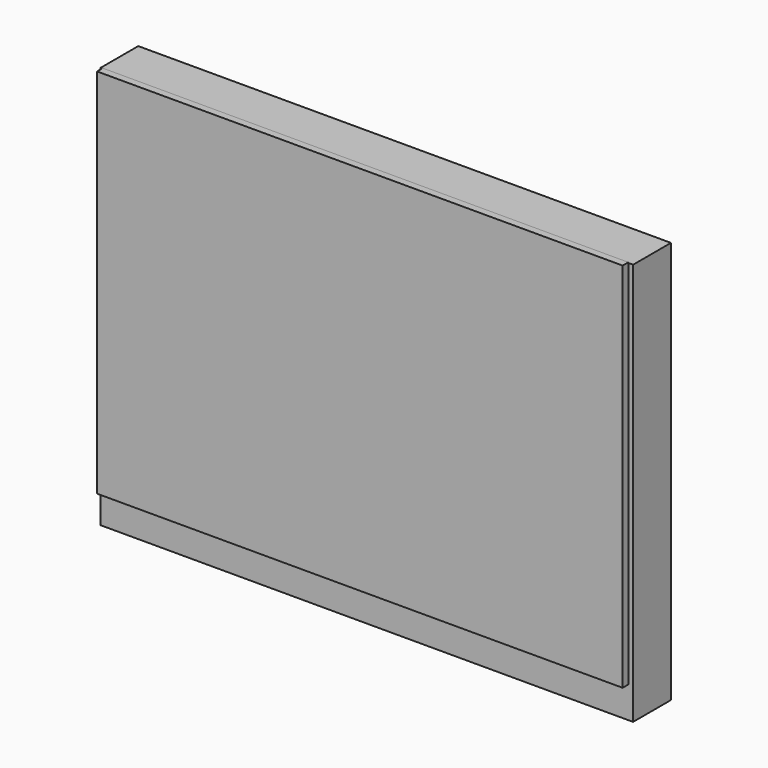
from build123d import *

# Parameters (mm, degrees)
BOX039_W                  = 222
BOX039_H                  = 3
BOX039_DEPTH              = 157
BOX081_W                  = 300
BOX081_H                  = 50
BOX081_DEPTH              = 200
BOX114_W                  = 1
BOX114_H                  = 20
BOX114_DEPTH              = 275
BOX115_W                  = 4
BOX115_H                  = 20
BOX115_DEPTH              = 275
BOX116_W                  = 225
BOX116_H                  = 20
BOX116_DEPTH              = 4
BOX117_W                  = 225
BOX117_H                  = 20
BOX117_DEPTH              = 1
BOX103_W                  = 35
BOX103_H                  = 30
BOX103_DEPTH              = 10
BOX104_W                  = 10
BOX104_H                  = 30
BOX104_DEPTH              = 10
BOX105_W                  = 10
BOX105_H                  = 30
BOX105_DEPTH              = 10
BOX106_W                  = 10
BOX106_H                  = 28.9
BOX106_DEPTH              = 10
BOX091_W                  = 10
BOX091_H                  = 28.9
BOX091_DEPTH              = 10
BOX092_W                  = 10
BOX092_H                  = 28.9
BOX092_DEPTH              = 10
BOX094_W                  = 12
BOX094_H                  = 30
BOX094_DEPTH              = 10
BOX093_W                  = 10
BOX093_H                  = 28.9
BOX093_DEPTH              = 10
BOX095_W                  = 45
BOX095_H                  = 30
BOX095_DEPTH              = 10
BOX097_W                  = 45
BOX097_H                  = 30
BOX097_DEPTH              = 10
BOX096_W                  = 35
BOX096_H                  = 30
BOX096_DEPTH              = 10
BOX098_W                  = 35
BOX098_H                  = 30
BOX098_DEPTH              = 10
BOX099_W                  = 45
BOX099_H                  = 30
BOX099_DEPTH              = 10
BOX100_W                  = 35
BOX100_H                  = 30
BOX100_DEPTH              = 10
BOX101_W                  = 45
BOX101_H                  = 30
BOX101_DEPTH              = 10
BOX082_W                  = 10
BOX082_H                  = 30
BOX082_DEPTH              = 10
BOX102_W                  = 10
BOX102_H                  = 30
BOX102_DEPTH              = 10
BOX083_W                  = 18
BOX083_H                  = 30
BOX083_DEPTH              = 10
BOX084_W                  = 10
BOX084_H                  = 30
BOX084_DEPTH              = 10
BOX085_W                  = 10
BOX085_H                  = 30
BOX085_DEPTH              = 10
BOX086_W                  = 10
BOX086_H                  = 30
BOX086_DEPTH              = 10
BOX087_W                  = 10
BOX087_H                  = 30
BOX087_DEPTH              = 10
BOX113_W                  = 10
BOX113_H                  = 30
BOX113_DEPTH              = 10
BOX112_W                  = 10
BOX112_H                  = 30
BOX112_DEPTH              = 10
BOX111_W                  = 10
BOX111_H                  = 30
BOX111_DEPTH              = 10
BOX109_W                  = 10
BOX109_H                  = 30
BOX109_DEPTH              = 10
BOX108_W                  = 10
BOX108_H                  = 30
BOX108_DEPTH              = 10
BOX088_W                  = 10
BOX088_H                  = 30
BOX088_DEPTH              = 11
BOX089_W                  = 10
BOX089_H                  = 30
BOX089_DEPTH              = 10
BOX090_W                  = 10
BOX090_H                  = 30
BOX090_DEPTH              = 10
BOX110_W                  = 10
BOX110_H                  = 30
BOX110_DEPTH              = 10
BOX107_W                  = 220
BOX107_H                  = 4
BOX107_DEPTH              = 275
FUSION013_PLACEMENT_ANGLE = 180
BOX150_W                  = 1
BOX150_H                  = 20
BOX150_DEPTH              = 275
BOX151_W                  = 4
BOX151_H                  = 20
BOX151_DEPTH              = 275
BOX152_W                  = 225
BOX152_H                  = 20
BOX152_DEPTH              = 4
BOX153_W                  = 225
BOX153_H                  = 20
BOX153_DEPTH              = 1
BOX119_W                  = 35
BOX119_H                  = 30
BOX119_DEPTH              = 10
BOX120_W                  = 10
BOX120_H                  = 30
BOX120_DEPTH              = 10
BOX121_W                  = 10
BOX121_H                  = 30
BOX121_DEPTH              = 10
BOX122_W                  = 10
BOX122_H                  = 28.9
BOX122_DEPTH              = 10
BOX123_W                  = 10
BOX123_H                  = 28.9
BOX123_DEPTH              = 10
BOX124_W                  = 10
BOX124_H                  = 28.9
BOX124_DEPTH              = 10
BOX126_W                  = 12
BOX126_H                  = 30
BOX126_DEPTH              = 10
BOX125_W                  = 10
BOX125_H                  = 28.9
BOX125_DEPTH              = 10
BOX127_W                  = 45
BOX127_H                  = 30
BOX127_DEPTH              = 10
BOX129_W                  = 45
BOX129_H                  = 30
BOX129_DEPTH              = 10
BOX128_W                  = 35
BOX128_H                  = 30
BOX128_DEPTH              = 10
BOX130_W                  = 35
BOX130_H                  = 30
BOX130_DEPTH              = 10
BOX131_W                  = 45
BOX131_H                  = 30
BOX131_DEPTH              = 10
BOX132_W                  = 35
BOX132_H                  = 30
BOX132_DEPTH              = 10
BOX133_W                  = 45
BOX133_H                  = 30
BOX133_DEPTH              = 10
BOX135_W                  = 10
BOX135_H                  = 30
BOX135_DEPTH              = 10
BOX134_W                  = 10
BOX134_H                  = 30
BOX134_DEPTH              = 10
BOX136_W                  = 18
BOX136_H                  = 30
BOX136_DEPTH              = 10
BOX137_W                  = 10
BOX137_H                  = 30
BOX137_DEPTH              = 10
BOX138_W                  = 10
BOX138_H                  = 30
BOX138_DEPTH              = 10
BOX139_W                  = 10
BOX139_H                  = 30
BOX139_DEPTH              = 10
BOX140_W                  = 10
BOX140_H                  = 30
BOX140_DEPTH              = 10
BOX149_W                  = 10
BOX149_H                  = 30
BOX149_DEPTH              = 10
BOX148_W                  = 10
BOX148_H                  = 30
BOX148_DEPTH              = 10
BOX147_W                  = 10
BOX147_H                  = 30
BOX147_DEPTH              = 10
BOX145_W                  = 10
BOX145_H                  = 30
BOX145_DEPTH              = 10
BOX144_W                  = 10
BOX144_H                  = 30
BOX144_DEPTH              = 10
BOX141_W                  = 10
BOX141_H                  = 30
BOX141_DEPTH              = 11
BOX142_W                  = 10
BOX142_H                  = 30
BOX142_DEPTH              = 10
BOX143_W                  = 10
BOX143_H                  = 30
BOX143_DEPTH              = 10
BOX146_W                  = 10
BOX146_H                  = 30
BOX146_DEPTH              = 10
BOX118_W                  = 220
BOX118_H                  = 4
BOX118_DEPTH              = 275
FUSION015_PLACEMENT_ANGLE = 180


with BuildPart() as cubo039:
    # Box039 → Box039 (new body)
    with BuildSketch(Plane(origin=(-49, 17, -24.75), x_dir=(1, 0, 0), z_dir=(0, 0, 1))):
        with Locations((111, 1.5)):
            Rectangle(BOX039_W, BOX039_H)
    extrude(amount=BOX039_DEPTH)


with BuildPart() as cubo081:
    # Box081 → Box081 (new body)
    with BuildSketch(Plane(origin=(-111, 11, -38), x_dir=(1, 0, 0), z_dir=(0, 0, 1))):
        with Locations((150, 25)):
            Rectangle(BOX081_W, BOX081_H)
    extrude(amount=BOX081_DEPTH)


with BuildPart() as cubo114:
    # Box114 → Box114 (new body)
    with BuildSketch(Plane(origin=(-49, 40, -147), x_dir=(-1, 0, 0), z_dir=(0, 0, 1))):
        with Locations((0.5, 10)):
            Rectangle(BOX114_W, BOX114_H)
    extrude(amount=BOX114_DEPTH)


with BuildPart() as cubo115:
    # Box115 → Box115 (new body)
    with BuildSketch(Plane(origin=(175, 40, -147), x_dir=(-1, 0, 0), z_dir=(0, 0, 1))):
        with Locations((2, 10)):
            Rectangle(BOX115_W, BOX115_H)
    extrude(amount=BOX115_DEPTH)


with BuildPart() as cubo116:
    # Box116 → Box116 (new body)
    with BuildSketch(Plane(origin=(175, 40, 128), x_dir=(-1, 0, 0), z_dir=(0, 0, 1))):
        with Locations((112.5, 10)):
            Rectangle(BOX116_W, BOX116_H)
    extrude(amount=BOX116_DEPTH)


with BuildPart() as cubo117:
    # Box117 → Box117 (new body)
    with BuildSketch(Plane(origin=(175, 40, -148), x_dir=(-1, 0, 0), z_dir=(0, 0, 1))):
        with Locations((112.5, 10)):
            Rectangle(BOX117_W, BOX117_H)
    extrude(amount=BOX117_DEPTH)


with BuildPart() as cubo103:
    # Box103 → Box103 (new body)
    with BuildSketch(Plane(origin=(-96, -54, 70), x_dir=(1, 0, 0), z_dir=(0, 0, 1))):
        with Locations((17.5, 15)):
            Rectangle(BOX103_W, BOX103_H)
    extrude(amount=BOX103_DEPTH)


with BuildPart() as cubo104:
    # Box104 → Box104 (new body)
    with BuildSketch(Plane(origin=(-142, -54, -110), x_dir=(1, 0, 0), z_dir=(0, 0, 1))):
        with Locations((5, 15)):
            Rectangle(BOX104_W, BOX104_H)
    extrude(amount=BOX104_DEPTH)


with BuildPart() as cubo105:
    # Box105 → Box105 (new body)
    with BuildSketch(Plane(origin=(-142, -54, -125), x_dir=(1, 0, 0), z_dir=(0, 0, 1))):
        with Locations((5, 15)):
            Rectangle(BOX105_W, BOX105_H)
    extrude(amount=BOX105_DEPTH)


with BuildPart() as cubo106:
    # Box106 → Box106 (new body)
    with BuildSketch(Plane(origin=(-106, -54, -115), x_dir=(1, 0, 0), z_dir=(0, 0, 1))):
        with Locations((5, 14.45)):
            Rectangle(BOX106_W, BOX106_H)
    extrude(amount=BOX106_DEPTH)


with BuildPart() as cubo091:
    # Box091 → Box091 (new body)
    with BuildSketch(Plane(origin=(-142, -54, -146), x_dir=(1, 0, 0), z_dir=(0, 0, 1))):
        with Locations((5, 14.45)):
            Rectangle(BOX091_W, BOX091_H)
    extrude(amount=BOX091_DEPTH)


with BuildPart() as cubo092:
    # Box092 → Box092 (new body)
    with BuildSketch(Plane(origin=(-59, -54, -146), x_dir=(1, 0, 0), z_dir=(0, 0, 1))):
        with Locations((5, 14.45)):
            Rectangle(BOX092_W, BOX092_H)
    extrude(amount=BOX092_DEPTH)


with BuildPart() as cubo094:
    # Box094 → Box094 (new body)
    with BuildSketch(Plane(origin=(-59, -54, -109), x_dir=(1, 0, 0), z_dir=(0, 0, 1))):
        with Locations((6, 15)):
            Rectangle(BOX094_W, BOX094_H)
    extrude(amount=BOX094_DEPTH)


with BuildPart() as cubo093:
    # Box093 → Box093 (new body)
    with BuildSketch(Plane(origin=(-59, -54, -125), x_dir=(1, 0, 0), z_dir=(0, 0, 1))):
        with Locations((5, 14.45)):
            Rectangle(BOX093_W, BOX093_H)
    extrude(amount=BOX093_DEPTH)


with BuildPart() as cubo095:
    # Box095 → Box095 (new body)
    with BuildSketch(Plane(origin=(-155, -54, 70), x_dir=(1, 0, 0), z_dir=(0, 0, 1))):
        with Locations((22.5, 15)):
            Rectangle(BOX095_W, BOX095_H)
    extrude(amount=BOX095_DEPTH)


with BuildPart() as cubo097:
    # Box097 → Box097 (new body)
    with BuildSketch(Plane(origin=(2, -54, 70), x_dir=(1, 0, 0), z_dir=(0, 0, 1))):
        with Locations((22.5, 15)):
            Rectangle(BOX097_W, BOX097_H)
    extrude(amount=BOX097_DEPTH)


with BuildPart() as cubo096:
    # Box096 → Box096 (new body)
    with BuildSketch(Plane(origin=(-46, -54, 70), x_dir=(1, 0, 0), z_dir=(0, 0, 1))):
        with Locations((17.5, 15)):
            Rectangle(BOX096_W, BOX096_H)
    extrude(amount=BOX096_DEPTH)


with BuildPart() as cubo098:
    # Box098 → Box098 (new body)
    with BuildSketch(Plane(origin=(-96, -54, -77), x_dir=(1, 0, 0), z_dir=(0, 0, 1))):
        with Locations((17.5, 15)):
            Rectangle(BOX098_W, BOX098_H)
    extrude(amount=BOX098_DEPTH)


with BuildPart() as cubo099:
    # Box099 → Box099 (new body)
    with BuildSketch(Plane(origin=(-155, -54, -77), x_dir=(1, 0, 0), z_dir=(0, 0, 1))):
        with Locations((22.5, 15)):
            Rectangle(BOX099_W, BOX099_H)
    extrude(amount=BOX099_DEPTH)


with BuildPart() as cubo100:
    # Box100 → Box100 (new body)
    with BuildSketch(Plane(origin=(-46, -54, -77), x_dir=(1, 0, 0), z_dir=(0, 0, 1))):
        with Locations((17.5, 15)):
            Rectangle(BOX100_W, BOX100_H)
    extrude(amount=BOX100_DEPTH)


with BuildPart() as cubo101:
    # Box101 → Box101 (new body)
    with BuildSketch(Plane(origin=(2, -54, -78), x_dir=(1, 0, 0), z_dir=(0, 0, 1))):
        with Locations((22.5, 15)):
            Rectangle(BOX101_W, BOX101_H)
    extrude(amount=BOX101_DEPTH)


with BuildPart() as cubo082:
    # Box082 → Box082 (new body)
    with BuildSketch(Plane(origin=(35, -54, -128), x_dir=(1, 0, 0), z_dir=(0, 0, 1))):
        with Locations((5, 15)):
            Rectangle(BOX082_W, BOX082_H)
    extrude(amount=BOX082_DEPTH)


with BuildPart() as cubo102:
    # Box102 → Box102 (new body)
    with BuildSketch(Plane(origin=(-25, -54, -128), x_dir=(1, 0, 0), z_dir=(0, 0, 1))):
        with Locations((5, 15)):
            Rectangle(BOX102_W, BOX102_H)
    extrude(amount=BOX102_DEPTH)


with BuildPart() as cubo083:
    # Box083 → Box083 (new body)
    with BuildSketch(Plane(origin=(2, -54, -86), x_dir=(1, 0, 0), z_dir=(0, 0, 1))):
        with Locations((9, 15)):
            Rectangle(BOX083_W, BOX083_H)
    extrude(amount=BOX083_DEPTH)


with BuildPart() as cubo084:
    # Box084 → Box084 (new body)
    with BuildSketch(Plane(origin=(-56, -54, 77), x_dir=(1, 0, 0), z_dir=(0, 0, 1))):
        with Locations((5, 15)):
            Rectangle(BOX084_W, BOX084_H)
    extrude(amount=BOX084_DEPTH)


with BuildPart() as cubo085:
    # Box085 → Box085 (new body)
    with BuildSketch(Plane(origin=(21, -54, 112), x_dir=(1, 0, 0), z_dir=(0, 0, 1))):
        with Locations((5, 15)):
            Rectangle(BOX085_W, BOX085_H)
    extrude(amount=BOX085_DEPTH)


with BuildPart() as cubo086:
    # Box086 → Box086 (new body)
    with BuildSketch(Plane(origin=(-55, -54, 112), x_dir=(1, 0, 0), z_dir=(0, 0, 1))):
        with Locations((5, 15)):
            Rectangle(BOX086_W, BOX086_H)
    extrude(amount=BOX086_DEPTH)


with BuildPart() as cubo087:
    # Box087 → Box087 (new body)
    with BuildSketch(Plane(origin=(19, -54, 77), x_dir=(1, 0, 0), z_dir=(0, 0, 1))):
        with Locations((5, 15)):
            Rectangle(BOX087_W, BOX087_H)
    extrude(amount=BOX087_DEPTH)


with BuildPart() as cubo113:
    # Box113 → Box113 (new body)
    with BuildSketch(Plane(origin=(-8, -54, -4), x_dir=(1, 0, 0), z_dir=(0, 0, 1))):
        with Locations((5, 15)):
            Rectangle(BOX113_W, BOX113_H)
    extrude(amount=BOX113_DEPTH)


with BuildPart() as cubo112:
    # Box112 → Box112 (new body)
    with BuildSketch(Plane(origin=(-58, -54, -4), x_dir=(1, 0, 0), z_dir=(0, 0, 1))):
        with Locations((5, 15)):
            Rectangle(BOX112_W, BOX112_H)
    extrude(amount=BOX112_DEPTH)


with BuildPart() as cubo111:
    # Box111 → Box111 (new body)
    with BuildSketch(Plane(origin=(-108, -54, -4), x_dir=(1, 0, 0), z_dir=(0, 0, 1))):
        with Locations((5, 15)):
            Rectangle(BOX111_W, BOX111_H)
    extrude(amount=BOX111_DEPTH)


with BuildPart() as cubo109:
    # Box109 → Box109 (new body)
    with BuildSketch(Plane(origin=(-155, -54, -4), x_dir=(1, 0, 0), z_dir=(0, 0, 1))):
        with Locations((5, 15)):
            Rectangle(BOX109_W, BOX109_H)
    extrude(amount=BOX109_DEPTH)


with BuildPart() as cubo108:
    # Box108 → Box108 (new body)
    with BuildSketch(Plane(origin=(-64, -54, 75), x_dir=(1, 0, 0), z_dir=(0, 0, 1))):
        with Locations((5, 15)):
            Rectangle(BOX108_W, BOX108_H)
    extrude(amount=BOX108_DEPTH)


with BuildPart() as cubo088:
    # Box088 → Box088 (new body)
    with BuildSketch(Plane(origin=(-65, -54, 111), x_dir=(1, 0, 0), z_dir=(0, 0, 1))):
        with Locations((5, 15)):
            Rectangle(BOX088_W, BOX088_H)
    extrude(amount=BOX088_DEPTH)


with BuildPart() as cubo089:
    # Box089 → Box089 (new body)
    with BuildSketch(Plane(origin=(-139, -54, 111), x_dir=(1, 0, 0), z_dir=(0, 0, 1))):
        with Locations((5, 15)):
            Rectangle(BOX089_W, BOX089_H)
    extrude(amount=BOX089_DEPTH)


with BuildPart() as cubo090:
    # Box090 → Box090 (new body)
    with BuildSketch(Plane(origin=(-139, -54, 76), x_dir=(1, 0, 0), z_dir=(0, 0, 1))):
        with Locations((5, 15)):
            Rectangle(BOX090_W, BOX090_H)
    extrude(amount=BOX090_DEPTH)


with BuildPart() as cubo110:
    # Box110 → Box110 (new body)
    with BuildSketch(Plane(origin=(37, -54, -4), x_dir=(1, 0, 0), z_dir=(0, 0, 1))):
        with Locations((5, 15)):
            Rectangle(BOX110_W, BOX110_H)
    extrude(amount=BOX110_DEPTH)


with BuildPart() as cut004:
    # Box107 → Box107 (new body)
    with BuildSketch(Plane(origin=(-171, -24, -147), x_dir=(1, 0, 0), z_dir=(0, 0, 1))):
        with Locations((110, 2)):
            Rectangle(BOX107_W, BOX107_H)
    extrude(amount=BOX107_DEPTH)

    # Fusion013: union Cubo103, Cubo104, Cubo105, Cubo106, Cubo091, Cubo092, Cubo094, Cubo093, Cubo095, Cubo097, Cubo096, Cubo098, Cubo099, Cubo100, Cubo101, Cubo082, Cubo102, Cubo083, Cubo084, Cubo085, Cubo086, Cubo087, Cubo113, Cubo112, Cubo111, Cubo109, Cubo108, Cubo088, Cubo089, Cubo090, Cubo110
    add(cubo103.part)
    add(cubo104.part)
    add(cubo105.part)
    add(cubo106.part)
    add(cubo091.part)
    add(cubo092.part)
    add(cubo094.part)
    add(cubo093.part)
    add(cubo095.part)
    add(cubo097.part)
    add(cubo096.part)
    add(cubo098.part)
    add(cubo099.part)
    add(cubo100.part)
    add(cubo101.part)
    add(cubo082.part)
    add(cubo102.part)
    add(cubo083.part)
    add(cubo084.part)
    add(cubo085.part)
    add(cubo086.part)
    add(cubo087.part)
    add(cubo113.part)
    add(cubo112.part)
    add(cubo111.part)
    add(cubo109.part)
    add(cubo108.part)
    add(cubo088.part)
    add(cubo089.part)
    add(cubo090.part)
    add(cubo110.part)


with BuildPart() as cut004_1:
    # Fusion013 placement: moved
    add(cut004.part.rotate(Axis((0, 0, 0), (0, 0, 1)), FUSION013_PLACEMENT_ANGLE))

    # Fusion014: union Cubo114, Cubo115, Cubo116, Cubo117
    add(cubo114.part)
    add(cubo115.part)
    add(cubo116.part)
    add(cubo117.part)

    # Cut004: cut Cubo081
    add(cubo081.part, mode=Mode.SUBTRACT)


with BuildPart() as cubo150:
    # Box150 → Box150 (new body)
    with BuildSketch(Plane(origin=(-49, 40, -147), x_dir=(-1, 0, 0), z_dir=(0, 0, 1))):
        with Locations((0.5, 10)):
            Rectangle(BOX150_W, BOX150_H)
    extrude(amount=BOX150_DEPTH)


with BuildPart() as cubo151:
    # Box151 → Box151 (new body)
    with BuildSketch(Plane(origin=(175, 40, -147), x_dir=(-1, 0, 0), z_dir=(0, 0, 1))):
        with Locations((2, 10)):
            Rectangle(BOX151_W, BOX151_H)
    extrude(amount=BOX151_DEPTH)


with BuildPart() as cubo152:
    # Box152 → Box152 (new body)
    with BuildSketch(Plane(origin=(175, 40, 128), x_dir=(-1, 0, 0), z_dir=(0, 0, 1))):
        with Locations((112.5, 10)):
            Rectangle(BOX152_W, BOX152_H)
    extrude(amount=BOX152_DEPTH)


with BuildPart() as cubo153:
    # Box153 → Box153 (new body)
    with BuildSketch(Plane(origin=(175, 40, -148), x_dir=(-1, 0, 0), z_dir=(0, 0, 1))):
        with Locations((112.5, 10)):
            Rectangle(BOX153_W, BOX153_H)
    extrude(amount=BOX153_DEPTH)


with BuildPart() as cubo119:
    # Box119 → Box119 (new body)
    with BuildSketch(Plane(origin=(-96, -54, 70), x_dir=(1, 0, 0), z_dir=(0, 0, 1))):
        with Locations((17.5, 15)):
            Rectangle(BOX119_W, BOX119_H)
    extrude(amount=BOX119_DEPTH)


with BuildPart() as cubo120:
    # Box120 → Box120 (new body)
    with BuildSketch(Plane(origin=(-142, -54, -110), x_dir=(1, 0, 0), z_dir=(0, 0, 1))):
        with Locations((5, 15)):
            Rectangle(BOX120_W, BOX120_H)
    extrude(amount=BOX120_DEPTH)


with BuildPart() as cubo121:
    # Box121 → Box121 (new body)
    with BuildSketch(Plane(origin=(-142, -54, -125), x_dir=(1, 0, 0), z_dir=(0, 0, 1))):
        with Locations((5, 15)):
            Rectangle(BOX121_W, BOX121_H)
    extrude(amount=BOX121_DEPTH)


with BuildPart() as cubo122:
    # Box122 → Box122 (new body)
    with BuildSketch(Plane(origin=(-106, -54, -115), x_dir=(1, 0, 0), z_dir=(0, 0, 1))):
        with Locations((5, 14.45)):
            Rectangle(BOX122_W, BOX122_H)
    extrude(amount=BOX122_DEPTH)


with BuildPart() as cubo123:
    # Box123 → Box123 (new body)
    with BuildSketch(Plane(origin=(-142, -54, -146), x_dir=(1, 0, 0), z_dir=(0, 0, 1))):
        with Locations((5, 14.45)):
            Rectangle(BOX123_W, BOX123_H)
    extrude(amount=BOX123_DEPTH)


with BuildPart() as cubo124:
    # Box124 → Box124 (new body)
    with BuildSketch(Plane(origin=(-59, -54, -146), x_dir=(1, 0, 0), z_dir=(0, 0, 1))):
        with Locations((5, 14.45)):
            Rectangle(BOX124_W, BOX124_H)
    extrude(amount=BOX124_DEPTH)


with BuildPart() as cubo126:
    # Box126 → Box126 (new body)
    with BuildSketch(Plane(origin=(-59, -54, -109), x_dir=(1, 0, 0), z_dir=(0, 0, 1))):
        with Locations((6, 15)):
            Rectangle(BOX126_W, BOX126_H)
    extrude(amount=BOX126_DEPTH)


with BuildPart() as cubo125:
    # Box125 → Box125 (new body)
    with BuildSketch(Plane(origin=(-59, -54, -125), x_dir=(1, 0, 0), z_dir=(0, 0, 1))):
        with Locations((5, 14.45)):
            Rectangle(BOX125_W, BOX125_H)
    extrude(amount=BOX125_DEPTH)


with BuildPart() as cubo127:
    # Box127 → Box127 (new body)
    with BuildSketch(Plane(origin=(-155, -54, 70), x_dir=(1, 0, 0), z_dir=(0, 0, 1))):
        with Locations((22.5, 15)):
            Rectangle(BOX127_W, BOX127_H)
    extrude(amount=BOX127_DEPTH)


with BuildPart() as cubo129:
    # Box129 → Box129 (new body)
    with BuildSketch(Plane(origin=(2, -54, 70), x_dir=(1, 0, 0), z_dir=(0, 0, 1))):
        with Locations((22.5, 15)):
            Rectangle(BOX129_W, BOX129_H)
    extrude(amount=BOX129_DEPTH)


with BuildPart() as cubo128:
    # Box128 → Box128 (new body)
    with BuildSketch(Plane(origin=(-46, -54, 70), x_dir=(1, 0, 0), z_dir=(0, 0, 1))):
        with Locations((17.5, 15)):
            Rectangle(BOX128_W, BOX128_H)
    extrude(amount=BOX128_DEPTH)


with BuildPart() as cubo130:
    # Box130 → Box130 (new body)
    with BuildSketch(Plane(origin=(-96, -54, -77), x_dir=(1, 0, 0), z_dir=(0, 0, 1))):
        with Locations((17.5, 15)):
            Rectangle(BOX130_W, BOX130_H)
    extrude(amount=BOX130_DEPTH)


with BuildPart() as cubo131:
    # Box131 → Box131 (new body)
    with BuildSketch(Plane(origin=(-155, -54, -77), x_dir=(1, 0, 0), z_dir=(0, 0, 1))):
        with Locations((22.5, 15)):
            Rectangle(BOX131_W, BOX131_H)
    extrude(amount=BOX131_DEPTH)


with BuildPart() as cubo132:
    # Box132 → Box132 (new body)
    with BuildSketch(Plane(origin=(-46, -54, -77), x_dir=(1, 0, 0), z_dir=(0, 0, 1))):
        with Locations((17.5, 15)):
            Rectangle(BOX132_W, BOX132_H)
    extrude(amount=BOX132_DEPTH)


with BuildPart() as cubo133:
    # Box133 → Box133 (new body)
    with BuildSketch(Plane(origin=(2, -54, -78), x_dir=(1, 0, 0), z_dir=(0, 0, 1))):
        with Locations((22.5, 15)):
            Rectangle(BOX133_W, BOX133_H)
    extrude(amount=BOX133_DEPTH)


with BuildPart() as cubo135:
    # Box135 → Box135 (new body)
    with BuildSketch(Plane(origin=(35, -54, -128), x_dir=(1, 0, 0), z_dir=(0, 0, 1))):
        with Locations((5, 15)):
            Rectangle(BOX135_W, BOX135_H)
    extrude(amount=BOX135_DEPTH)


with BuildPart() as cubo134:
    # Box134 → Box134 (new body)
    with BuildSketch(Plane(origin=(-25, -54, -128), x_dir=(1, 0, 0), z_dir=(0, 0, 1))):
        with Locations((5, 15)):
            Rectangle(BOX134_W, BOX134_H)
    extrude(amount=BOX134_DEPTH)


with BuildPart() as cubo136:
    # Box136 → Box136 (new body)
    with BuildSketch(Plane(origin=(2, -54, -86), x_dir=(1, 0, 0), z_dir=(0, 0, 1))):
        with Locations((9, 15)):
            Rectangle(BOX136_W, BOX136_H)
    extrude(amount=BOX136_DEPTH)


with BuildPart() as cubo137:
    # Box137 → Box137 (new body)
    with BuildSketch(Plane(origin=(-56, -54, 77), x_dir=(1, 0, 0), z_dir=(0, 0, 1))):
        with Locations((5, 15)):
            Rectangle(BOX137_W, BOX137_H)
    extrude(amount=BOX137_DEPTH)


with BuildPart() as cubo138:
    # Box138 → Box138 (new body)
    with BuildSketch(Plane(origin=(21, -54, 112), x_dir=(1, 0, 0), z_dir=(0, 0, 1))):
        with Locations((5, 15)):
            Rectangle(BOX138_W, BOX138_H)
    extrude(amount=BOX138_DEPTH)


with BuildPart() as cubo139:
    # Box139 → Box139 (new body)
    with BuildSketch(Plane(origin=(-55, -54, 112), x_dir=(1, 0, 0), z_dir=(0, 0, 1))):
        with Locations((5, 15)):
            Rectangle(BOX139_W, BOX139_H)
    extrude(amount=BOX139_DEPTH)


with BuildPart() as cubo140:
    # Box140 → Box140 (new body)
    with BuildSketch(Plane(origin=(19, -54, 77), x_dir=(1, 0, 0), z_dir=(0, 0, 1))):
        with Locations((5, 15)):
            Rectangle(BOX140_W, BOX140_H)
    extrude(amount=BOX140_DEPTH)


with BuildPart() as cubo149:
    # Box149 → Box149 (new body)
    with BuildSketch(Plane(origin=(-8, -54, -4), x_dir=(1, 0, 0), z_dir=(0, 0, 1))):
        with Locations((5, 15)):
            Rectangle(BOX149_W, BOX149_H)
    extrude(amount=BOX149_DEPTH)


with BuildPart() as cubo148:
    # Box148 → Box148 (new body)
    with BuildSketch(Plane(origin=(-58, -54, -4), x_dir=(1, 0, 0), z_dir=(0, 0, 1))):
        with Locations((5, 15)):
            Rectangle(BOX148_W, BOX148_H)
    extrude(amount=BOX148_DEPTH)


with BuildPart() as cubo147:
    # Box147 → Box147 (new body)
    with BuildSketch(Plane(origin=(-108, -54, -4), x_dir=(1, 0, 0), z_dir=(0, 0, 1))):
        with Locations((5, 15)):
            Rectangle(BOX147_W, BOX147_H)
    extrude(amount=BOX147_DEPTH)


with BuildPart() as cubo145:
    # Box145 → Box145 (new body)
    with BuildSketch(Plane(origin=(-155, -54, -4), x_dir=(1, 0, 0), z_dir=(0, 0, 1))):
        with Locations((5, 15)):
            Rectangle(BOX145_W, BOX145_H)
    extrude(amount=BOX145_DEPTH)


with BuildPart() as cubo144:
    # Box144 → Box144 (new body)
    with BuildSketch(Plane(origin=(-64, -54, 75), x_dir=(1, 0, 0), z_dir=(0, 0, 1))):
        with Locations((5, 15)):
            Rectangle(BOX144_W, BOX144_H)
    extrude(amount=BOX144_DEPTH)


with BuildPart() as cubo141:
    # Box141 → Box141 (new body)
    with BuildSketch(Plane(origin=(-65, -54, 111), x_dir=(1, 0, 0), z_dir=(0, 0, 1))):
        with Locations((5, 15)):
            Rectangle(BOX141_W, BOX141_H)
    extrude(amount=BOX141_DEPTH)


with BuildPart() as cubo142:
    # Box142 → Box142 (new body)
    with BuildSketch(Plane(origin=(-139, -54, 111), x_dir=(1, 0, 0), z_dir=(0, 0, 1))):
        with Locations((5, 15)):
            Rectangle(BOX142_W, BOX142_H)
    extrude(amount=BOX142_DEPTH)


with BuildPart() as cubo143:
    # Box143 → Box143 (new body)
    with BuildSketch(Plane(origin=(-139, -54, 76), x_dir=(1, 0, 0), z_dir=(0, 0, 1))):
        with Locations((5, 15)):
            Rectangle(BOX143_W, BOX143_H)
    extrude(amount=BOX143_DEPTH)


with BuildPart() as cubo146:
    # Box146 → Box146 (new body)
    with BuildSketch(Plane(origin=(37, -54, -4), x_dir=(1, 0, 0), z_dir=(0, 0, 1))):
        with Locations((5, 15)):
            Rectangle(BOX146_W, BOX146_H)
    extrude(amount=BOX146_DEPTH)


with BuildPart() as obj1:
    # Box118 → Box118 (new body)
    with BuildSketch(Plane(origin=(-171, -24, -147), x_dir=(1, 0, 0), z_dir=(0, 0, 1))):
        with Locations((110, 2)):
            Rectangle(BOX118_W, BOX118_H)
    extrude(amount=BOX118_DEPTH)

    # Fusion015: union Cubo119, Cubo120, Cubo121, Cubo122, Cubo123, Cubo124, Cubo126, Cubo125, Cubo127, Cubo129, Cubo128, Cubo130, Cubo131, Cubo132, Cubo133, Cubo135, Cubo134, Cubo136, Cubo137, Cubo138, Cubo139, Cubo140, Cubo149, Cubo148, Cubo147, Cubo145, Cubo144, Cubo141, Cubo142, Cubo143, Cubo146
    add(cubo119.part)
    add(cubo120.part)
    add(cubo121.part)
    add(cubo122.part)
    add(cubo123.part)
    add(cubo124.part)
    add(cubo126.part)
    add(cubo125.part)
    add(cubo127.part)
    add(cubo129.part)
    add(cubo128.part)
    add(cubo130.part)
    add(cubo131.part)
    add(cubo132.part)
    add(cubo133.part)
    add(cubo135.part)
    add(cubo134.part)
    add(cubo136.part)
    add(cubo137.part)
    add(cubo138.part)
    add(cubo139.part)
    add(cubo140.part)
    add(cubo149.part)
    add(cubo148.part)
    add(cubo147.part)
    add(cubo145.part)
    add(cubo144.part)
    add(cubo141.part)
    add(cubo142.part)
    add(cubo143.part)
    add(cubo146.part)


with BuildPart() as obj1_1:
    # Fusion015 placement: moved
    add(obj1.part.rotate(Axis((0, 0, 0), (0, 0, 1)), FUSION015_PLACEMENT_ANGLE))

    # Fusion016: union Cubo150, Cubo151, Cubo152, Cubo153
    add(cubo150.part)
    add(cubo151.part)
    add(cubo152.part)
    add(cubo153.part)

    # Cut005: cut Cut004
    add(cut004_1.part, mode=Mode.SUBTRACT)

    # Fusion020: union Cubo039
    add(cubo039.part)


solid = obj1_1.part
